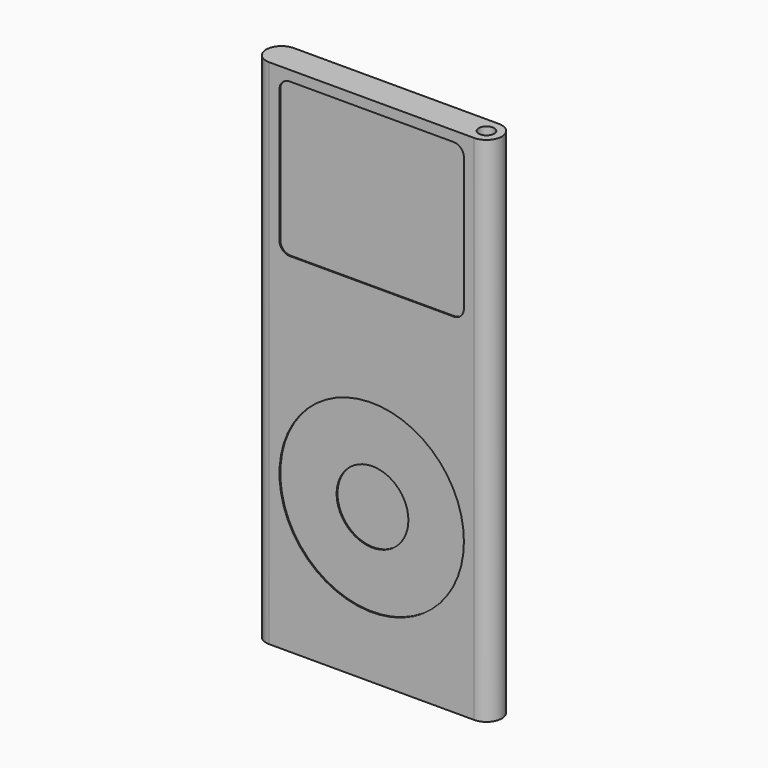
from build123d import *

# Parameters (mm, degrees)
F1_DEPTH = 500
F3_DEPTH = 1
F4_R     = 90
F5_DEPTH = 1
F6_R     = 35
F7_DEPTH = 1
F8_R     = 7.5
F9_DEPTH = 25


with BuildPart() as f1:
    # F0 (on Top) → F1 (new body)
    with BuildSketch(Plane.XY):
        with BuildLine():
            Line((200, 15), (0, 15))
            ThreePointArc((0, 15), (-15, 0), (0, -15))
            Line((0, -15), (200, -15))
            ThreePointArc((200, -15), (215, 0), (200, 15))
        make_face()
    extrude(amount=F1_DEPTH)

    # F2 (on face) → F3 (cut)
    with BuildSketch(Plane.XZ.offset(15)):
        with BuildLine():
            Line((180, 490), (20, 490))
            ThreePointArc((20, 490), (12.928932, 487.071068), (10, 480))
            Line((10, 480), (10, 350))
            ThreePointArc((10, 350), (12.928932, 342.928932), (20, 340))
            Line((20, 340), (180, 340))
            ThreePointArc((180, 340), (187.071068, 342.928932), (190, 350))
            Line((190, 350), (190, 480))
            ThreePointArc((190, 480), (187.071068, 487.071068), (180, 490))
        make_face()
    extrude(amount=-F3_DEPTH, mode=Mode.SUBTRACT)

    # F4 (on face) → F5 (cut)
    with BuildSketch(Plane.XZ.offset(15)):
        with Locations((100, 150)):
            Circle(F4_R)
    extrude(amount=-F5_DEPTH, mode=Mode.SUBTRACT)

    # F6 (on face) → F7 (cut)
    with BuildSketch(Plane.XZ.offset(14)):
        with Locations((100, 150)):
            Circle(F6_R)
    extrude(amount=-F7_DEPTH, mode=Mode.SUBTRACT)

    # F8 (on face) → F9 (cut)
    with BuildSketch(Plane.XY.offset(500)):
        with Locations((200, 0)):
            Circle(F8_R)
    extrude(amount=-F9_DEPTH, mode=Mode.SUBTRACT)


solid = f1.part
